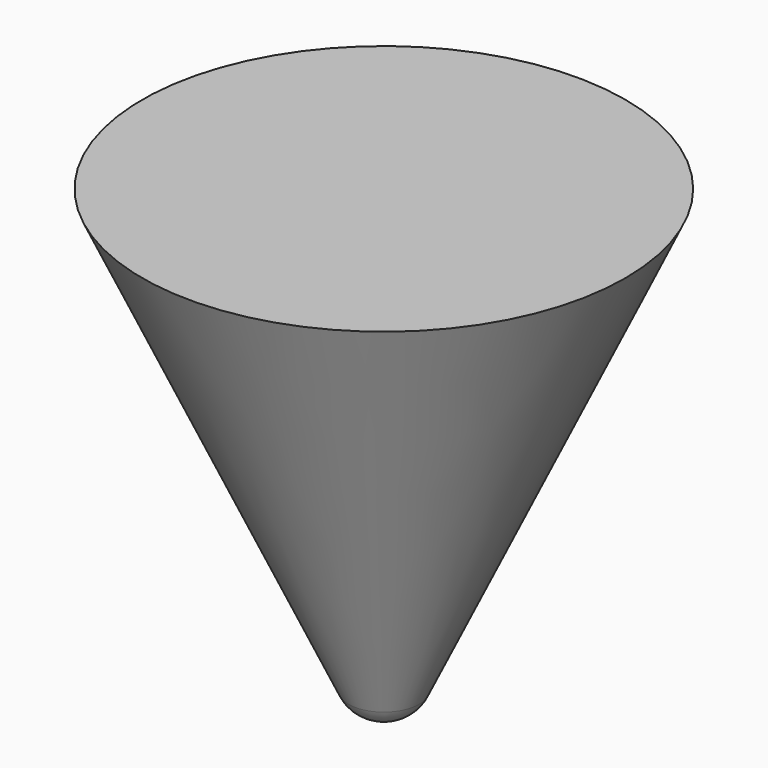
from build123d import *

# Parameters (mm, degrees)
F1_R     = 4.699
F2_DEPTH = 6.35
F2_TAPER = 25
F3_R     = 2.54
F4_R     = 4.699
F5_DEPTH = 25.4
F5_TAPER = -25


with BuildPart() as f2:
    # F1 (on offset) → F2 (new body)
    with BuildSketch(Plane.XY.offset(-25.4)):
        Circle(F1_R)
    extrude(amount=-F2_DEPTH, taper=F2_TAPER)

    # F3
    f3_edges = [f2.edges().sort_by_distance(p)[0] for p in [
        (-1.737946, 0, -31.75),
    ]]
    fillet(f3_edges, radius=F3_R)

    # F4 (on offset) → F5 (join)
    with BuildSketch(Plane.XY.offset(-25.4)):
        Circle(F4_R)
    extrude(amount=F5_DEPTH, taper=F5_TAPER)


solid = f2.part
